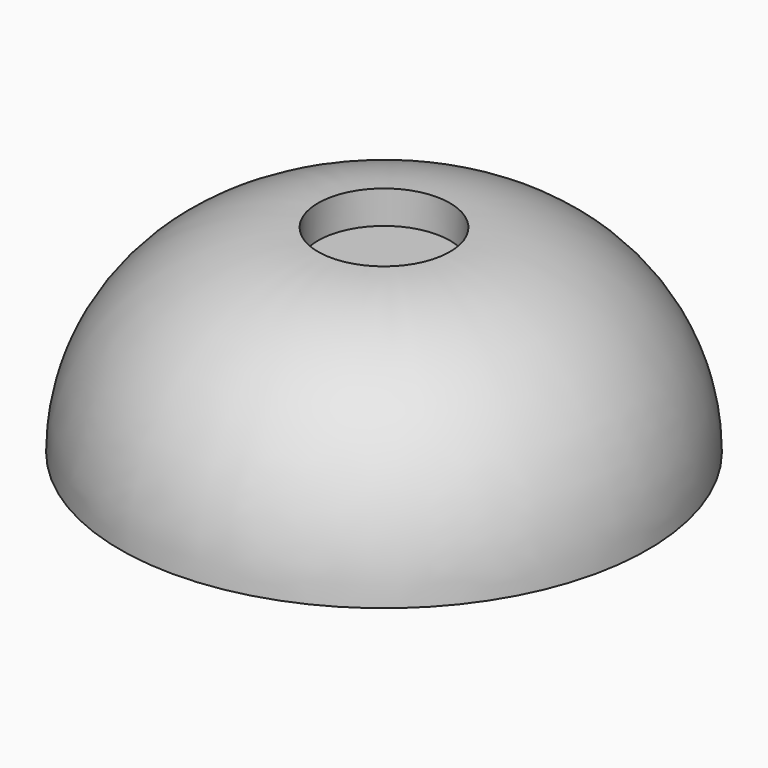
from build123d import *

# Parameters (mm, degrees)
F2_T = -2.54


with BuildPart() as f1:
    # F0 (on Right) → F1 (revolve)
    with BuildSketch(Plane.YZ):
        with BuildLine():
            Line((0, 31.75), (0, 0))
            Line((0, 0), (50.8, 0))
            ThreePointArc((50.8, 0), (39.6407683632, 26.9407683632), (12.7, 38.1))
            Line((12.7, 38.1), (12.7, 31.75))
            Line((12.7, 31.75), (0, 31.75))
        make_face()
    revolve(axis=Axis((0, 0, 19.05), (0, 0, 1)))

    # F2 (hollow: no face is removed)
    offset(amount=F2_T, kind=Kind.INTERSECTION, mode=Mode.SUBTRACT)


solid = f1.part
